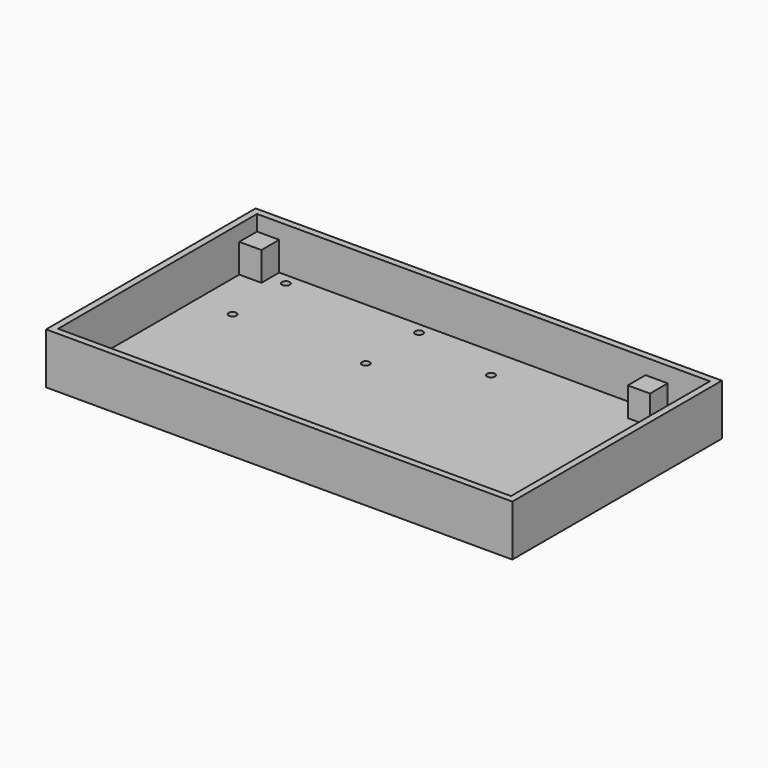
from build123d import *

# Parameters (mm, degrees)
F0_W     = 210
F0_H     = 118
F1_DEPTH = 23
F2_T     = -3
F3_W     = 10
F3_H     = 10
F4_DEPTH = 13
F5_R     = 1.75
F6_DEPTH = 25


with BuildPart() as f1:
    # F0 (on Top) → F1 (new body)
    with BuildSketch(Plane.XY):
        with Locations((105, -59)):
            Rectangle(F0_W, F0_H)
    extrude(amount=F1_DEPTH)

    # F2
    f2_openings = [f1.faces().sort_by_distance(p)[0] for p in [
        (105, -59, 23),
    ]]
    offset(amount=F2_T, openings=f2_openings)

    # F3 (on face) → F4 (join)
    with BuildSketch(Plane.XY.offset(3)):
        with Locations((8, -8)):
            Rectangle(F3_W, F3_H)
        with Locations((183, -8)):
            Rectangle(F3_W, F3_H)
        with Locations((183, -110)):
            Rectangle(F3_W, F3_H)
        with Locations((8, -110)):
            Rectangle(F3_W, F3_H)
    extrude(amount=F4_DEPTH)

    # F5 (on face) → F6 (cut)
    with BuildSketch(Plane.XY.offset(3)):
        with Locations((20, -8)):
            Circle(F5_R)
        with Locations((20, -38)):
            Circle(F5_R)
        with Locations((80, -38)):
            Circle(F5_R)
        with Locations((80, -8)):
            Circle(F5_R)
        with Locations((120, -17.5)):
            Circle(F5_R)
    extrude(amount=-F6_DEPTH, mode=Mode.SUBTRACT)


solid = f1.part
